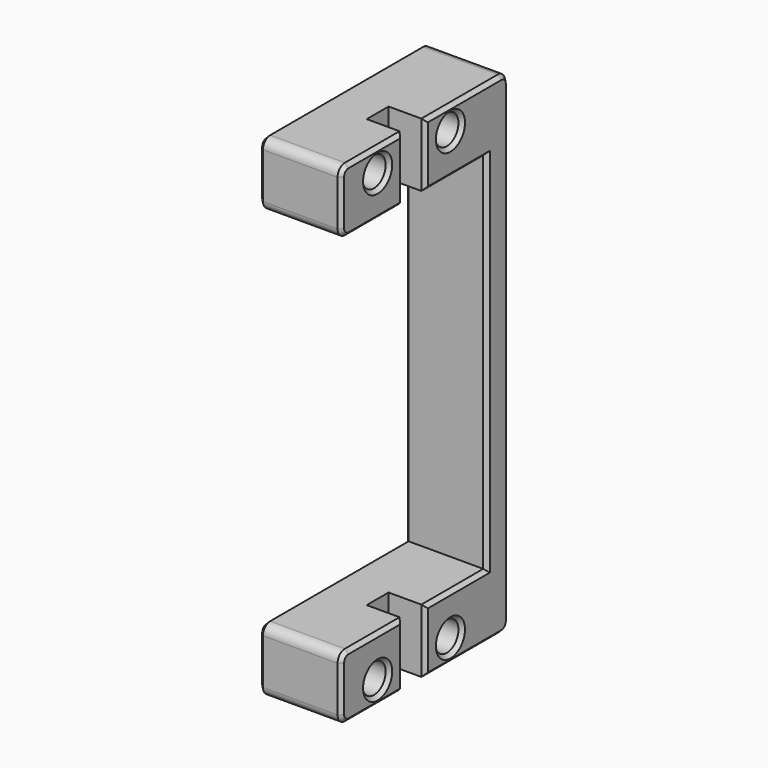
from build123d import *

# Parameters (mm, degrees)
SKETCH044_R       = 1.6
PAD025_DEPTH      = 9
FILLET013_R       = 1
SKETCH075_W       = 8
SKETCH075_H       = 3
POCKET_DEPTH      = 37.001
POCKET_DEPTH_BACK = -17.001
CHAMFER_SIZE      = 0.4


with BuildPart() as part:
    # Sketch044 → Pad025 (new body)
    with BuildSketch(Plane.YZ):
        Polygon((-10, 17), (13, 17), (13, -37), (-10, -37), (-10, -30), (10, -30), (10, 10), (-10, 10), align=None)
        with Locations((-5, 14.5)):
            Circle(SKETCH044_R, mode=Mode.SUBTRACT)
        with Locations((5, 14.5)):
            Circle(SKETCH044_R, mode=Mode.SUBTRACT)
        with Locations((-5, -34.5)):
            Circle(SKETCH044_R, mode=Mode.SUBTRACT)
        with Locations((5, -34.5)):
            Circle(SKETCH044_R, mode=Mode.SUBTRACT)
    extrude(amount=-PAD025_DEPTH)

    # Fillet013
    fillet013_edges = [part.edges().sort_by_distance(p)[0] for p in [
        (-4.5, -10, 17),
        (-4.5, -10, 10),
        (-4.5, -10, -30),
        (-4.5, -10, -37),
        (-4.5, 13, -37),
        (-4.5, 13, 17),
    ]]
    fillet(fillet013_edges, radius=FILLET013_R)

    # Sketch075 (on XY_Plane042 of Origin045) → Pocket (cut, two sides)
    with BuildSketch(Plane.XY) as pocket_sk:
        Rectangle(SKETCH075_W, SKETCH075_H)
    extrude(amount=-POCKET_DEPTH, mode=Mode.SUBTRACT)
    extrude(pocket_sk.sketch, amount=-POCKET_DEPTH_BACK, mode=Mode.SUBTRACT)

    # Chamfer
    chamfer_edges = [part.edges().sort_by_distance(p)[0] for p in [
        (0, 6.75, 17),
        (0, 12.707107, 16.707107),
        (0, 13, -10),
        (0, 12.707107, -36.707107),
        (0, 6.75, -37),
        (0, 1.5, -33.5),
        (0, 5.75, -30),
        (0, 10, -10),
        (0, 5.75, 10),
        (0, 1.5, 13.5),
        (0, 3.4, -34.5),
        (0, 3.4, 14.5),
        (0, -5.25, 17),
        (0, -1.5, 13.5),
        (0, -5.25, 10),
        (0, -9.707107, 10.292893),
        (0, -10, 13.5),
        (0, -9.707107, 16.707107),
        (0, -6.6, 14.5),
        (0, -1.5, -33.5),
        (0, -5.25, -37),
        (0, -9.707107, -36.707107),
        (0, -10, -33.5),
        (0, -9.707107, -30.292893),
        (0, -5.25, -30),
        (0, -6.6, -34.5),
        (-9, 1.5, 17),
        (-9, -9.707107, 16.707107),
        (-9, 12.707107, 16.707107),
        (-9, -10, 13.5),
        (-9, 13, -10),
        (-9, -9.707107, 10.292893),
        (-9, 12.707107, -36.707107),
        (-9, 0.5, 10),
        (-9, 1.5, -37),
        (-9, 10, -10),
        (-9, -9.707107, -36.707107),
        (-9, 0.5, -30),
        (-9, -10, -33.5),
        (-9, -9.707107, -30.292893),
        (-9, -6.6, 14.5),
        (-9, 3.4, 14.5),
        (-9, -6.6, -34.5),
        (-9, 3.4, -34.5),
    ]]
    chamfer(chamfer_edges, length=CHAMFER_SIZE)


solid = part.part
